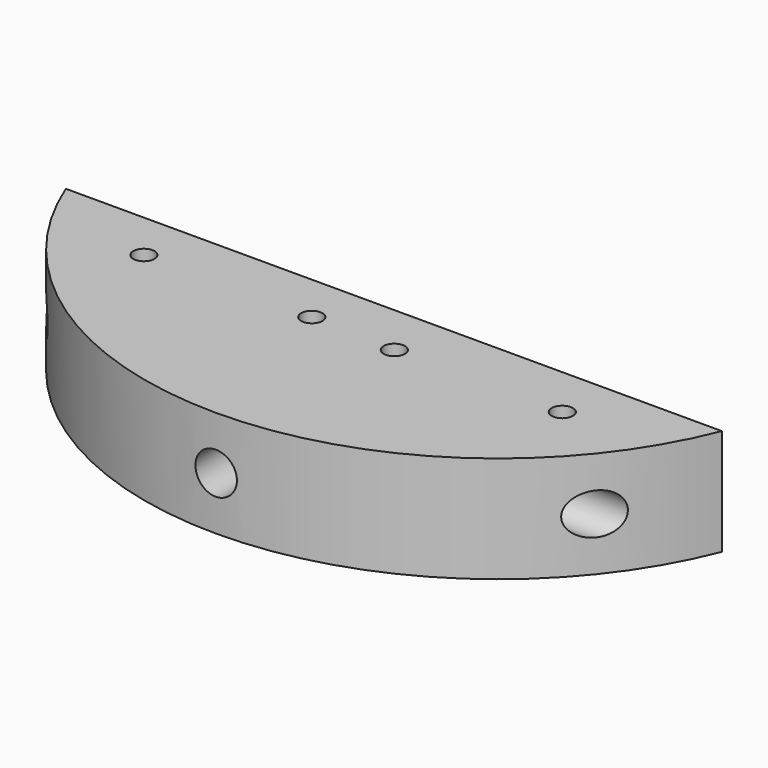
from build123d import *

# Parameters (mm, degrees)
PAD003_DEPTH         = 10
SKETCH004_R          = 1
POCKET_DEPTH         = 10.001
SKETCH006_R          = 1.95
POCKET002_DEPTH      = 20.951
SKETCH007_R          = 1.95
POCKET003_DEPTH      = 100
POCKET003_DEPTH_BACK = 100


with BuildPart() as part:
    # Sketch003 → Pad003 (new body)
    with BuildSketch(Plane.XY):
        with BuildLine():
            ThreePointArc((-30.857374, -12.25), (0, -33.2), (30.857374, -12.25))
            Line((-30.857374, -12.25), (30.857374, -12.25))
        make_face()
    extrude(amount=PAD003_DEPTH)

    # Sketch004 (on Face4 of Pad003) → Pocket (cut, through all)
    with BuildSketch(Plane.XY.offset(10)):
        with Locations((4, -17.2)):
            Circle(SKETCH004_R)
        with Locations((19.8, -17.2)):
            Circle(SKETCH004_R)
        with Locations((-4, -16.9)):
            Circle(SKETCH004_R)
        with Locations((-19.8, -16.9)):
            Circle(SKETCH004_R)
    extrude(amount=-POCKET_DEPTH, mode=Mode.SUBTRACT)

    # Sketch006 (on Face2 of Pocket) → Pocket002 (cut, through all)
    with BuildSketch(Plane(origin=(0, -12.25, 0), x_dir=(-1, 0, 0), z_dir=(0, 1, 0))):
        with Locations((0, 5)):
            Circle(SKETCH006_R)
    extrude(amount=-POCKET002_DEPTH, mode=Mode.SUBTRACT)

    # Sketch007 → Pocket003 (cut, two sides)
    with BuildSketch(Plane.YZ) as pocket003_sk:
        with Locations((-20.825799, 5)):
            Circle(SKETCH007_R)
    extrude(amount=-POCKET003_DEPTH, mode=Mode.SUBTRACT)
    extrude(pocket003_sk.sketch, amount=POCKET003_DEPTH_BACK, mode=Mode.SUBTRACT)


solid = part.part
